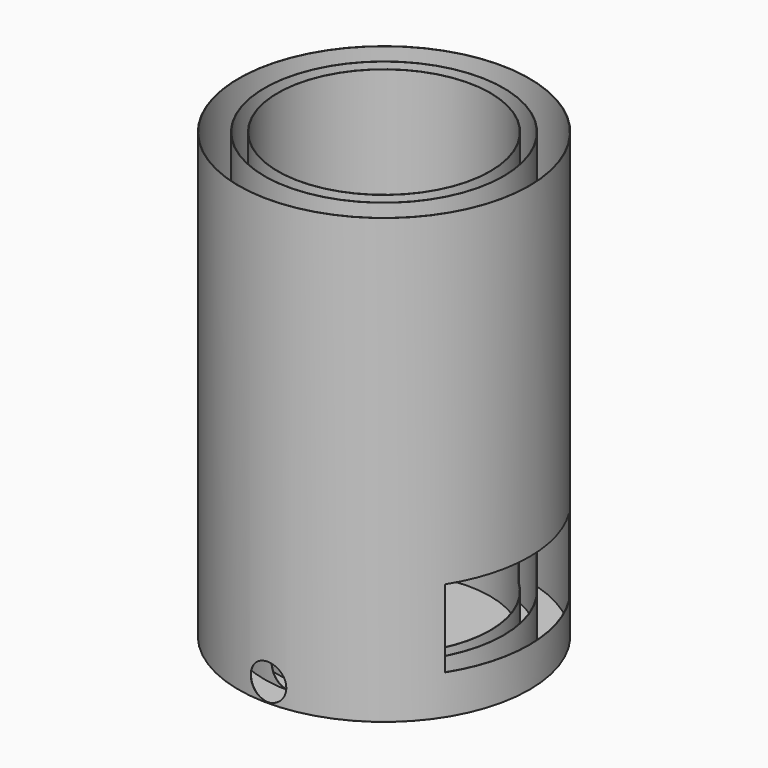
from build123d import *

# Parameters (mm, degrees)
F0_R      = 285.75
F1_DEPTH  = 1.27
F2_R      = 285.75
F2_R_2    = 285.115
F3_DEPTH  = 869.95
F4_R      = 234.95
F4_R_2    = 234.315
F5_DEPTH  = 869.95
F6_R      = 208.915
F6_R_2    = 208.28
F7_DEPTH  = 869.95
F9_DEPTH  = 285.751
F11_DEPTH = 304.8


with BuildPart() as f1:
    # F0 (on Top) → F1 (new body)
    with BuildSketch(Plane.XY):
        Circle(F0_R)
        Circle(F0_R)
    extrude(amount=-F1_DEPTH)

    # F2 (on face) → F3 (join)
    with BuildSketch(Plane.XY):
        Circle(F2_R)
        Circle(F2_R_2, mode=Mode.SUBTRACT)
    extrude(amount=F3_DEPTH)

    # F4 (on face) → F5 (join)
    with BuildSketch(Plane.XY):
        Circle(F4_R)
        Circle(F4_R_2, mode=Mode.SUBTRACT)
    extrude(amount=F5_DEPTH)

    # F6 (on face) → F7 (join)
    with BuildSketch(Plane.XY):
        Circle(F6_R)
        Circle(F6_R_2, mode=Mode.SUBTRACT)
    extrude(amount=F7_DEPTH)

    # F8 (on Front) → F9 (cut, through all)
    with BuildSketch(Plane.XZ):
        with BuildLine():
            ThreePointArc((0, 0.635), (24.695704, 10.864296), (34.925, 35.56))
            ThreePointArc((34.925, 35.56), (-24.695704, 60.255704), (0, 0.635))
        make_face()
    extrude(amount=F9_DEPTH, mode=Mode.SUBTRACT)

    # F10 (on Right) → F11 (cut)
    with BuildSketch(Plane.YZ):
        Polygon((-152.4, 76.2), (0, 76.2), (152.4, 76.2), (152.4, 228.6), (-152.4, 228.6), align=None)
    extrude(amount=F11_DEPTH, mode=Mode.SUBTRACT)


solid = f1.part
